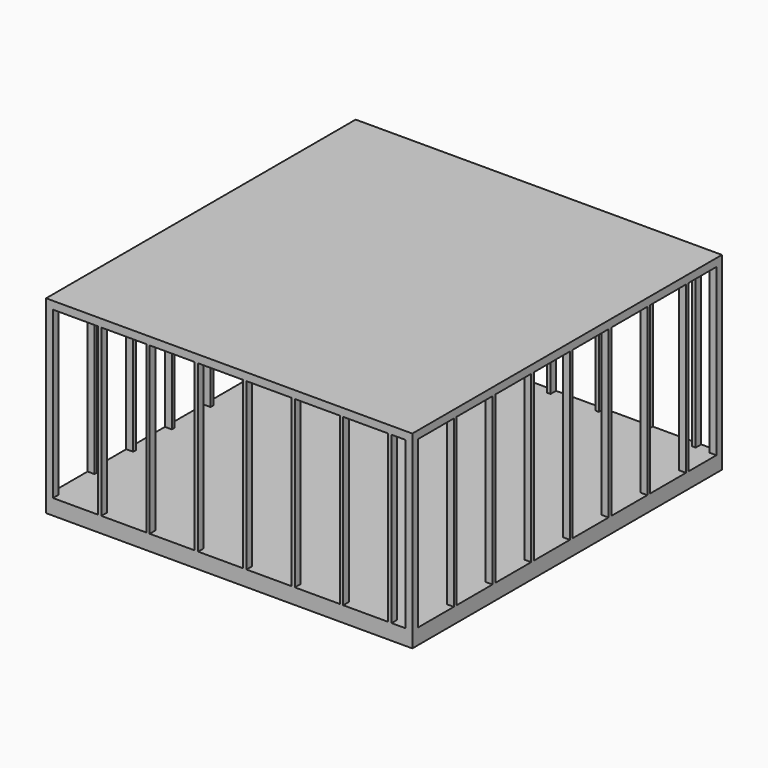
from build123d import *

# Parameters (mm, degrees)
F1_DEPTH  = 101.6
F2_W      = 1658.62
F2_H      = 5486.4
F2_W_2    = 1661.16
F3_DEPTH  = 101.6
F4_W      = 5384.8
F4_H      = 5689.6
F5_DEPTH  = 114.3
F6_W      = 5181.6
F6_H      = 660.4
F6_H_2    = 508
F7_DEPTH  = 101.6
F8_W      = 5384.8
F8_H      = 5689.6
F9_DEPTH  = 12.7
F10_W     = 101.6
F10_H     = 101.6
F10_H_2   = 50.8
F10_W_2   = 50.8
F10_W_3   = 50.7999999999
F11_DEPTH = 2438.4
F12_W     = 5384.8
F12_H     = 5689.6
F13_DEPTH = 101.6
F14_W     = 5181.6
F14_H     = 508
F14_H_2   = 660.4
F15_DEPTH = 101.6
F16_W     = 5384.8
F16_H     = 5689.6
F17_DEPTH = 12.7


with BuildPart() as f1:
    # F0 (on Top) → F1 (new body)
    with BuildSketch(Plane.XY):
        Polygon((-5283.2, 0), (0, 0), (0, 5689.6), (-5384.8, 5689.6), (-5384.8, 5588), (-5384.8, 101.6), (-5384.8, 0), align=None)
    extrude(amount=F1_DEPTH)

    # F2 (on face) → F3 (cut)
    with BuildSketch(Plane.XY.offset(101.6)):
        with Locations((-4453.89, 2844.8)):
            Rectangle(F2_W, F2_H)
        with Locations((-2692.4, 2844.8)):
            Rectangle(F2_W_2, F2_H)
        with Locations((-930.91, 2844.8)):
            Rectangle(F2_W, F2_H)
    extrude(amount=-F3_DEPTH, mode=Mode.SUBTRACT)

    # F4 (on face) → F5 (join)
    with BuildSketch(Plane.XY.offset(101.6)):
        with Locations((-2692.4, 2844.8)):
            Rectangle(F4_W, F4_H)
    extrude(amount=F5_DEPTH)

    # F6 (on face) → F7 (cut)
    with BuildSketch(Plane.XY.offset(215.9)):
        with Locations((-2692.4, 431.8)):
            Rectangle(F6_W, F6_H)
        with Locations((-2692.4, 1143)):
            Rectangle(F6_W, F6_H)
        with Locations((-2692.4, 1854.2)):
            Rectangle(F6_W, F6_H)
        with Locations((-2692.4, 2565.4)):
            Rectangle(F6_W, F6_H)
        with Locations((-2692.4, 3276.6)):
            Rectangle(F6_W, F6_H)
        with Locations((-2692.4, 3987.8)):
            Rectangle(F6_W, F6_H)
        with Locations((-2692.4, 4699)):
            Rectangle(F6_W, F6_H)
        with Locations((-2692.4, 5334)):
            Rectangle(F6_W, F6_H_2)
    extrude(amount=-F7_DEPTH, mode=Mode.SUBTRACT)

    # F8 (on face) → F9 (join)
    with BuildSketch(Plane.XY.offset(215.9)):
        with Locations((-2692.4, 2844.8)):
            Rectangle(F8_W, F8_H)
    extrude(amount=F9_DEPTH)

    # F10 (on face) → F11 (join)
    with BuildSketch(Plane.XY.offset(228.6)):
        with Locations((-5334, 50.8)):
            Rectangle(F10_W, F10_H)
        with Locations((-50.8, 5638.8)):
            Rectangle(F10_W, F10_H)
        with Locations((-50.8, 5054.6)):
            Rectangle(F10_W, F10_H_2)
        with Locations((-50.8, 4343.4)):
            Rectangle(F10_W, F10_H_2)
        with Locations((-50.8, 3632.2)):
            Rectangle(F10_W, F10_H_2)
        with Locations((-50.8, 2921)):
            Rectangle(F10_W, F10_H_2)
        with Locations((-50.8, 2209.8)):
            Rectangle(F10_W, F10_H_2)
        with Locations((-50.8, 1498.6)):
            Rectangle(F10_W, F10_H_2)
        with Locations((-50.8, 787.4)):
            Rectangle(F10_W, F10_H_2)
        with Locations((-50.8, 50.8)):
            Rectangle(F10_W, F10_H)
        with Locations((-330.2000000002, 50.8)):
            Rectangle(F10_W_2, F10_H)
        with Locations((-1041.4000000001, 50.8)):
            Rectangle(F10_W_3, F10_H)
        with Locations((-1752.6, 50.8)):
            Rectangle(F10_W_2, F10_H)
        with Locations((-2463.8, 50.8)):
            Rectangle(F10_W_2, F10_H)
        with Locations((-3175, 50.8)):
            Rectangle(F10_W_2, F10_H)
        with Locations((-3886.2, 50.8)):
            Rectangle(F10_W_2, F10_H)
        with Locations((-4597.4, 50.8)):
            Rectangle(F10_W_2, F10_H)
        with Locations((-330.2000000002, 5638.8)):
            Rectangle(F10_W_2, F10_H)
        with Locations((-1041.4000000001, 5638.8)):
            Rectangle(F10_W_3, F10_H)
        with Locations((-1752.6, 5638.8)):
            Rectangle(F10_W_2, F10_H)
        with Locations((-2463.8, 5638.8)):
            Rectangle(F10_W_2, F10_H)
        with Locations((-3175, 5638.8)):
            Rectangle(F10_W_2, F10_H)
        with Locations((-3886.2, 5638.8)):
            Rectangle(F10_W_2, F10_H)
        with Locations((-4597.4, 5638.8)):
            Rectangle(F10_W_2, F10_H)
        with Locations((-5334, 5638.8)):
            Rectangle(F10_W, F10_H)
        with Locations((-5334, 5054.6)):
            Rectangle(F10_W, F10_H_2)
        with Locations((-5334, 4343.4)):
            Rectangle(F10_W, F10_H_2)
        with Locations((-5334, 3632.2)):
            Rectangle(F10_W, F10_H_2)
        with Locations((-5334, 2921)):
            Rectangle(F10_W, F10_H_2)
        with Locations((-5334, 2209.8)):
            Rectangle(F10_W, F10_H_2)
        with Locations((-5334, 1498.6)):
            Rectangle(F10_W, F10_H_2)
        with Locations((-5334, 787.4)):
            Rectangle(F10_W, F10_H_2)
    extrude(amount=F11_DEPTH)

    # F12 (on face) → F13 (join)
    with BuildSketch(Plane.XY.offset(2667)):
        with Locations((-2692.4, 2844.8)):
            Rectangle(F12_W, F12_H)
    extrude(amount=F13_DEPTH)

    # F14 (on face) → F15 (cut)
    with BuildSketch(Plane.XY.offset(2768.6)):
        with Locations((-2692.4, 5334)):
            Rectangle(F14_W, F14_H)
        with Locations((-2692.4, 4699)):
            Rectangle(F14_W, F14_H_2)
        with Locations((-2692.4, 3987.8)):
            Rectangle(F14_W, F14_H_2)
        with Locations((-2692.4, 3276.6)):
            Rectangle(F14_W, F14_H_2)
        with Locations((-2692.4, 2565.4)):
            Rectangle(F14_W, F14_H_2)
        with Locations((-2692.4, 1854.2)):
            Rectangle(F14_W, F14_H_2)
        with Locations((-2692.4, 1143)):
            Rectangle(F14_W, F14_H_2)
        with Locations((-2692.4, 431.8)):
            Rectangle(F14_W, F14_H_2)
    extrude(amount=-F15_DEPTH, mode=Mode.SUBTRACT)

    # F16 (on face) → F17 (join)
    with BuildSketch(Plane.XY.offset(2768.6)):
        with Locations((-2692.4, 2844.8)):
            Rectangle(F16_W, F16_H)
    extrude(amount=F17_DEPTH)


solid = f1.part
